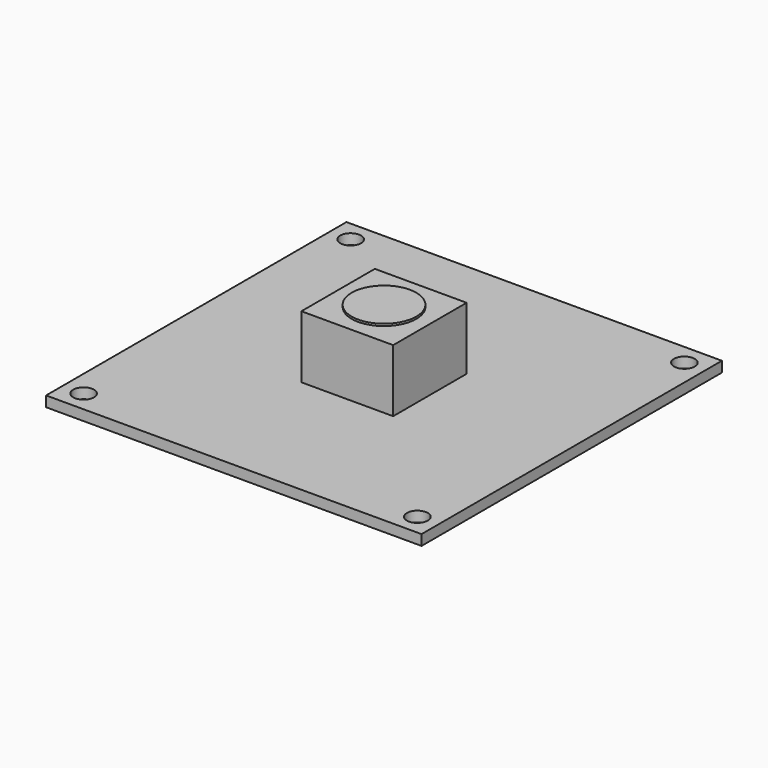
from build123d import *

# Parameters (mm, degrees)
F0_W     = 36
F0_H     = 36
F0_R     = 1
F1_DEPTH = 1
F2_W     = 8.8
F2_H     = 8.8
F3_DEPTH = 6
F4_W     = 24.5
F4_H     = 5.5
F5_DEPTH = 2.3
F6_R     = 3.1
F7_DEPTH = 0.2


with BuildPart() as f1:
    # F0 (on Top) → F1 (new body)
    with BuildSketch(Plane.XY):
        Rectangle(F0_W, F0_H)
        with Locations((-16, -16)):
            Circle(F0_R, mode=Mode.SUBTRACT)
        with Locations((16, -16)):
            Circle(F0_R, mode=Mode.SUBTRACT)
        with Locations((-16, 16)):
            Circle(F0_R, mode=Mode.SUBTRACT)
        with Locations((16, 16)):
            Circle(F0_R, mode=Mode.SUBTRACT)
    extrude(amount=F1_DEPTH)

    # F2 (on face) → F3 (join)
    with BuildSketch(Plane.XY.offset(1)):
        Rectangle(F2_W, F2_H)
    extrude(amount=F3_DEPTH)

    # F4 (on face) → F5 (join)
    with BuildSketch(Plane(origin=(0, 0, 0), x_dir=(1, 0, 0), z_dir=(0, 0, -1))):
        with Locations((0, -15.25)):
            Rectangle(F4_W, F4_H)
    extrude(amount=F5_DEPTH)

    # F6 (on face) → F7 (join)
    with BuildSketch(Plane.XY.offset(7)):
        Circle(F6_R)
    extrude(amount=F7_DEPTH)


solid = f1.part
